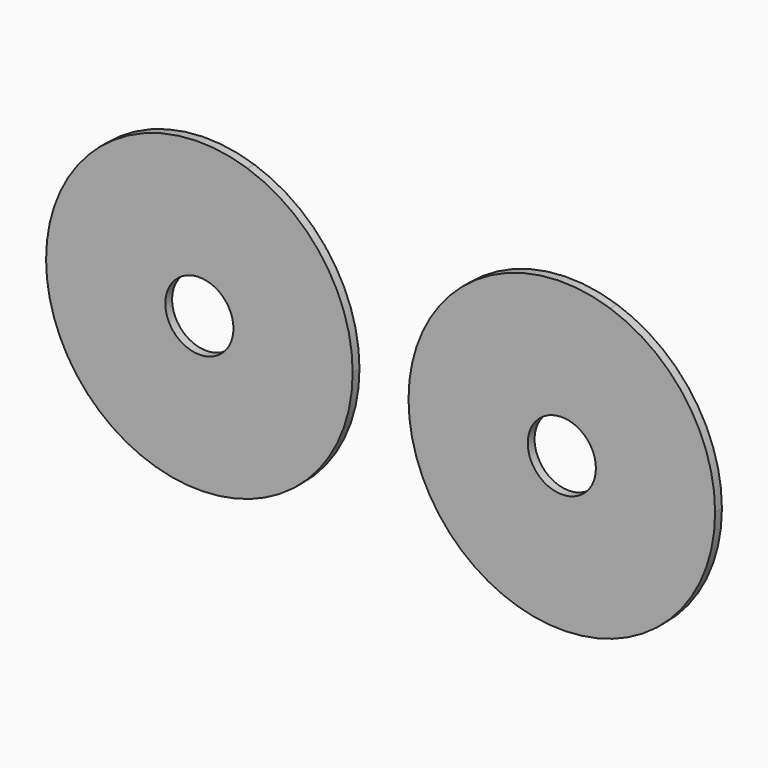
from build123d import *

# Parameters (mm, degrees)
F0_R     = 12.7
F1_DEPTH = 3.175


with BuildPart() as f1:
    # F0 (on Front) → F1 (new body)
    with BuildSketch(Plane.XZ):
        with BuildLine():
            ThreePointArc((24.434787, -51.662982), (48.283385, -30.575108), (57.15, 0))
            ThreePointArc((57.15, 0), (46.338134, 33.44996), (17.9934, 54.243525))
            ThreePointArc((17.9934, 54.243525), (-7.882696, 56.60376), (-32.129354, 47.26338))
            ThreePointArc((-32.129354, 47.26338), (-50.508985, 26.738829), (-57.15, 0))
            ThreePointArc((-57.15, 0), (-49.121232, -29.21005), (-27.290787, -50.212901))
            ThreePointArc((-27.290787, -50.212901), (-1.60152, -57.127556), (24.434787, -51.662982))
        make_face()
        Circle(F0_R, mode=Mode.SUBTRACT)
        with BuildLine():
            ThreePointArc((159.562396, -53.603237), (183.410994, -32.515363), (192.277609, -1.940256))
            ThreePointArc((192.277609, -1.940256), (181.465743, 31.509705), (153.121009, 52.30327))
            ThreePointArc((153.121009, 52.30327), (127.244913, 54.663504), (102.998255, 45.323125))
            ThreePointArc((102.998255, 45.323125), (84.618624, 24.798573), (77.977609, -1.940256))
            ThreePointArc((77.977609, -1.940256), (86.006377, -31.150306), (107.836823, -52.153157))
            ThreePointArc((107.836823, -52.153157), (133.526089, -59.067811), (159.562396, -53.603237))
        make_face()
        with Locations((135.127609, -1.940256)):
            Circle(F0_R, mode=Mode.SUBTRACT)
    extrude(amount=F1_DEPTH)


solid = f1.part
